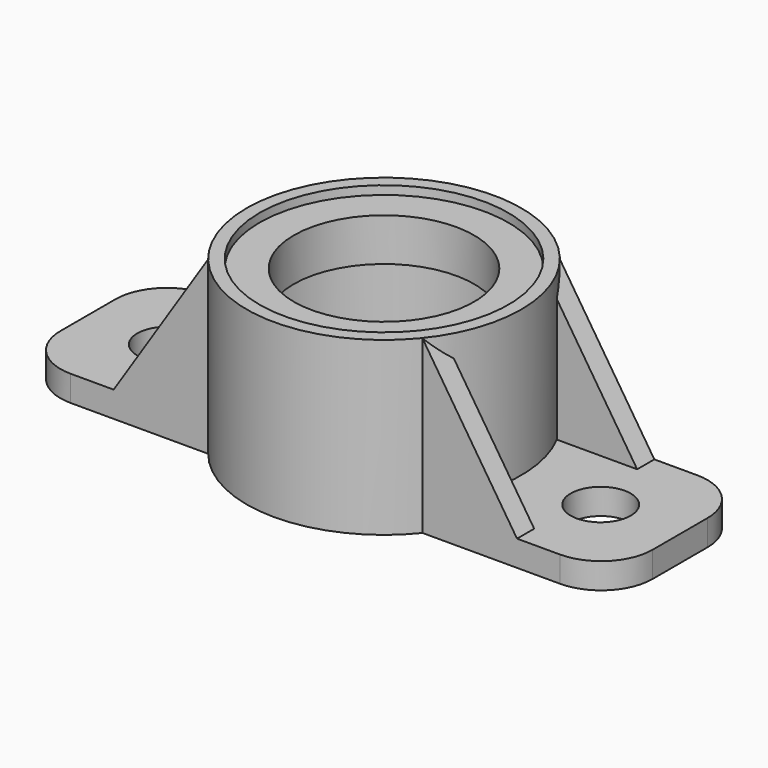
from build123d import *

# Parameters (mm, degrees)
F0_W      = 350.52
F0_H      = 101.6
F1_DEPTH  = 101.6
F3_DEPTH  = 135.89
F4_W      = 56.0828397485
F4_H      = 76.2
F4_W_2    = 126.5943205029
F5_DEPTH  = 86.36
F6_R      = 81.28
F6_W      = 126.5943205029
F6_H      = 12.7
F7_DEPTH  = 214.122
F11_R     = 30.48
F12_R     = 17.78
F13_DEPTH = 25.4


with BuildPart() as f1:
    # F0 (on Top) → F1 (new body)
    with BuildSketch(Plane.XY):
        Rectangle(F0_W, F0_H)
    extrude(amount=F1_DEPTH)

    # F2 (on face) → F3 (cut)
    with BuildSketch(Plane.XZ.offset(50.8)):
        Polygon((-175.26, 101.6), (-175.26, 15.24), (-119.38, 15.24), (-63.2971602515, 101.6), align=None)
        Polygon((175.26, 101.6), (63.2971602515, 101.6), (119.38, 15.24), (175.26, 15.24), align=None)
    extrude(amount=-F3_DEPTH, mode=Mode.SUBTRACT)

    # F4 (on face) → F5 (cut)
    with BuildSketch(Plane.XY.offset(101.6)):
        with Locations((-91.3385801257, 0)):
            Rectangle(F4_W, F4_H)
        Rectangle(F4_W_2, F4_H)
        with Locations((91.3385801257, 0)):
            Rectangle(F4_W, F4_H)
    extrude(amount=-F5_DEPTH, mode=Mode.SUBTRACT)

    # F6 (on face) → F7 (cut)
    with BuildSketch(Plane.XY.offset(101.6)):
        Circle(F6_R)
        with Locations((0, -44.45)):
            Rectangle(F6_W, F6_H, mode=Mode.SUBTRACT)
        with Locations((0, -44.45)):
            Rectangle(F6_W, F6_H)
    extrude(amount=-F7_DEPTH, mode=Mode.SUBTRACT)

    # F8 (on Front) → F10 (revolve)
    with BuildSketch(Plane.XZ):
        Polygon((-81.28, 0), (-20.32, 0), (-20.32, 10.16), (-43.18, 10.16), (-43.18, 15.24), (-68.58, 15.24), (-68.58, 71.12), (-53.34, 71.12), (-53.34, 96.52), (-73.66, 96.52), (-73.66, 101.6), (-81.28, 101.6), align=None)
    revolve(axis=Axis((0, 0, 50.3256209195), (0, 0, 1)))

    # F11
    f11_edges = [f1.edges().sort_by_distance(p)[0] for p in [
        (175.26, -50.8, 7.62),
        (175.26, 50.8, 7.62),
        (-175.26, -50.8, 7.62),
        (-175.26, 50.8, 7.62),
    ]]
    fillet(f11_edges, radius=F11_R)

    # F12 (on face) → F13 (cut)
    with BuildSketch(Plane.XY.offset(15.24)):
        with Locations((-128.27, 0)):
            Circle(F12_R)
        with Locations((128.27, 0)):
            Circle(F12_R)
    extrude(amount=-F13_DEPTH, mode=Mode.SUBTRACT)


solid = f1.part
